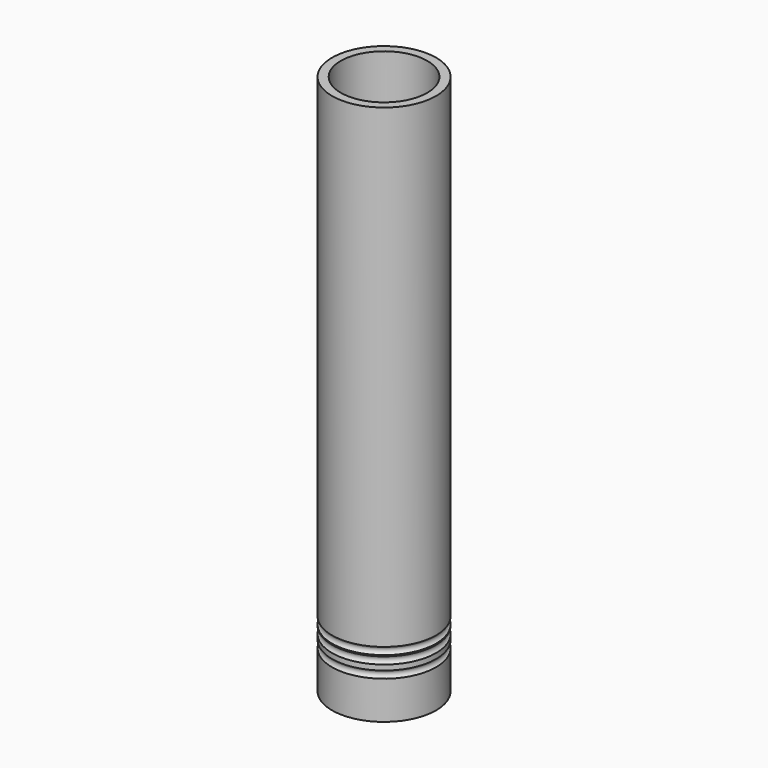
from build123d import *

# Parameters (mm, degrees)
TORUS002_R             = 1
TORUS_R                = 1
TORUS001_R             = 1
CYLINDER004_R          = 4.8
CYLINDER004_DEPTH      = 10
CYLINDER004_ROLL_ANGLE = 90
CYLINDER001_R          = 10.4
CYLINDER001_DEPTH      = 130
CYLINDER_R             = 12.5
CYLINDER_DEPTH         = 130
FILLET_R               = 0.5
FILLET001_R            = 1


with BuildPart() as torus002:
    # Torus002 → Torus002 (revolve)
    with BuildSketch(Plane(origin=(0, 0, 15), x_dir=(1, 0, 0), z_dir=(0, -1, 0))):
        with Locations((13, 0)):
            Circle(TORUS002_R)
    revolve(axis=Axis((0, 0, 15), (0, 0, 1)))


with BuildPart() as torus:
    # Torus → Torus (revolve)
    with BuildSketch(Plane(origin=(0, 0, 13), x_dir=(1, 0, 0), z_dir=(0, -1, 0))):
        with Locations((13, 0)):
            Circle(TORUS_R)
    revolve(axis=Axis((0, 0, 13), (0, 0, 1)))


with BuildPart() as torus001:
    # Torus001 → Torus001 (revolve)
    with BuildSketch(Plane(origin=(0, 0, 10), x_dir=(1, 0, 0), z_dir=(0, -1, 0))):
        with Locations((13, 0)):
            Circle(TORUS001_R)
    revolve(axis=Axis((0, 0, 10), (0, 0, 1)))


with BuildPart() as obj1:
    # Cylinder004 → Cylinder004 (new body)
    with BuildSketch(Plane.XY):
        Circle(CYLINDER004_R)
    extrude(amount=CYLINDER004_DEPTH)


with BuildPart() as obj1_1:
    # Cylinder004 roll: moved
    add(obj1.part.rotate(Axis((0, 0, 0), (1, 0, 0)), CYLINDER004_ROLL_ANGLE))


with BuildPart() as obj1_2:
    # Cylinder004 placement: moved
    add(obj1_1.part.moved(Location((0, 15, 40))))


with BuildPart() as cylinder001:
    # Cylinder001 → Cylinder001 (new body)
    with BuildSketch(Plane.XY):
        Circle(CYLINDER001_R)
    extrude(amount=CYLINDER001_DEPTH)


with BuildPart() as fillet001:
    # Cylinder → Cylinder (new body)
    with BuildSketch(Plane.XY):
        Circle(CYLINDER_R)
    extrude(amount=CYLINDER_DEPTH)

    # Cut: cut Cylinder001
    add(cylinder001.part, mode=Mode.SUBTRACT)

    # Cut001: cut obj1
    add(obj1_2.part, mode=Mode.SUBTRACT)

    # Cut002: cut Torus001
    add(torus001.part, mode=Mode.SUBTRACT)

    # Cut003: cut Torus
    add(torus.part, mode=Mode.SUBTRACT)

    # Cut004: cut Torus002
    add(torus002.part, mode=Mode.SUBTRACT)

    # Fillet
    fillet_edges = [fillet001.edges().sort_by_distance(p)[0] for p in [
        (-4.8, 11.541664, 40),
    ]]
    fillet(fillet_edges, radius=FILLET_R)

    # Fillet001
    fillet001_edges = [fillet001.edges().sort_by_distance(p)[0] for p in [
        (-4.8, 9.22605, 40),
    ]]
    fillet(fillet001_edges, radius=FILLET001_R)


solid = fillet001.part
